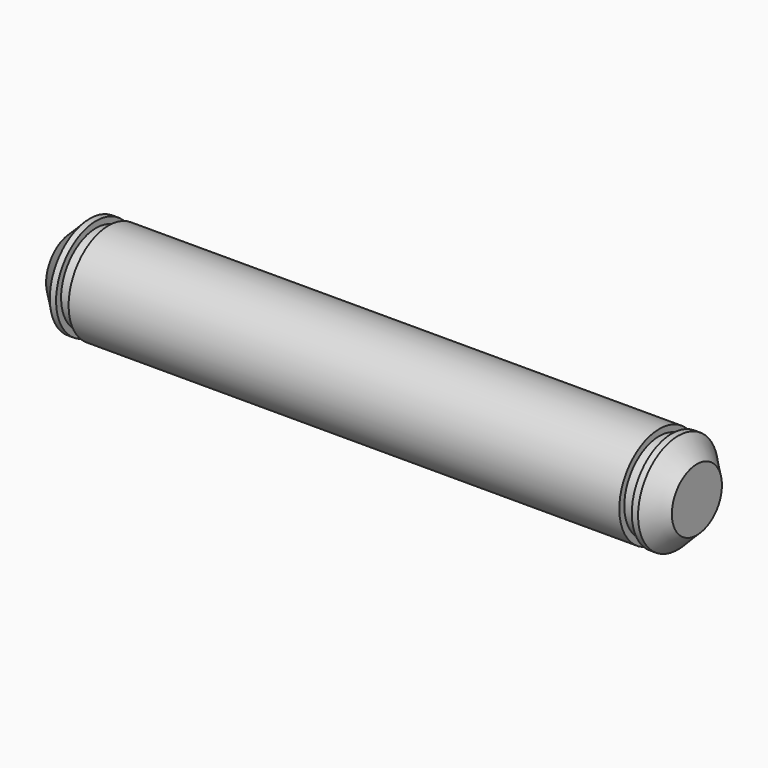
from build123d import *

# Parameters (mm, degrees)
F2_SIZE = 1.5


with BuildPart() as f1:
    # F0 (on Front) → F1 (revolve)
    with BuildSketch(Plane.XZ):
        Polygon((0, 4), (0, 0), (25, 0), (25, 4), (3, 4), (3, 3.5), (2, 3.5), (2, 4), align=None)
        Polygon((25, 4), (25, 0), (50, 0), (50, 4), (48, 4), (48, 3.5), (47, 3.5), (47, 4), align=None)
    revolve(axis=Axis((12.5, 0, 0), (1, 0, 0)))

    # F2
    f2_edges = [f1.edges().sort_by_distance(p)[0] for p in [
        (50, 0, -4),
        (0, 0, -4),
    ]]
    chamfer(f2_edges, length=F2_SIZE)


solid = f1.part
